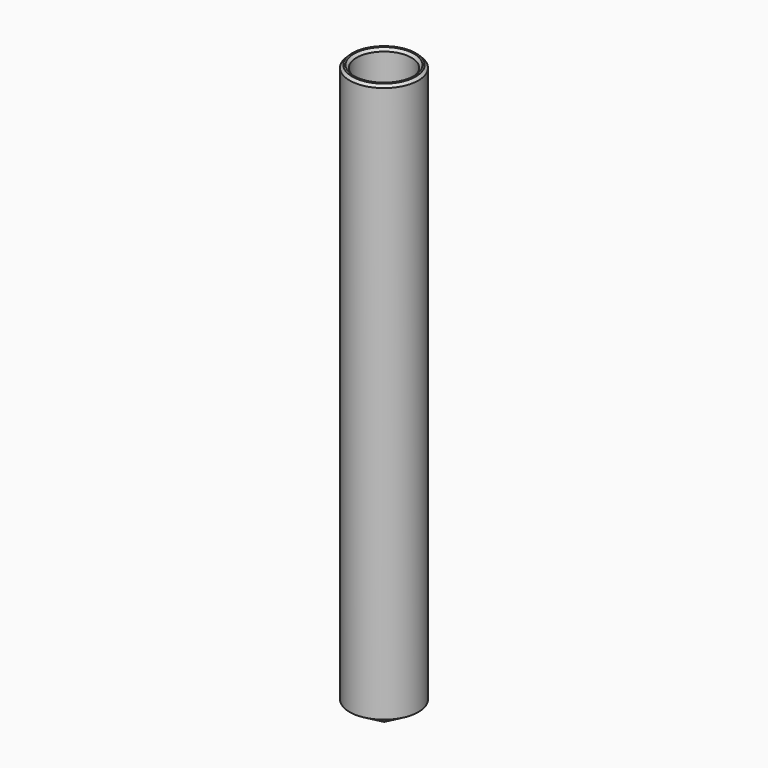
from build123d import *

# Parameters (mm, degrees)
F4_SIZE  = 0.3
F6_START = -30
F5_R     = 3.25
F6_DEPTH = 7.1198021535


with BuildPart() as f3:
    # F2 (on Front) → F3 (revolve)
    with BuildSketch(Plane.XZ):
        Polygon((4, 0), (3.2, 0), (3.2, -64.5381197846), (0, -66.3856406461), (0, -67.3094010768), (4, -65), align=None)
    revolve(axis=Axis((0, 0, -32.7149666846), (0, 0, -1)))

    # F4
    f4_edges = [f3.edges().sort_by_distance(p)[0] for p in [
        (-4, 0, 0),
        (-3.2, 0, 0),
    ]]
    chamfer(f4_edges, length=F4_SIZE)

    # F5 (on line) → F6 (cut)
    with BuildSketch(Plane(origin=(0, 0, 0), x_dir=(1, 0, 0), z_dir=(0, -0.8660254038, 0.5)).offset(F6_START)):
        with Locations((0, -53.791651246)):
            Circle(F5_R)
    extrude(amount=-F6_DEPTH, mode=Mode.SUBTRACT)


solid = f3.part
